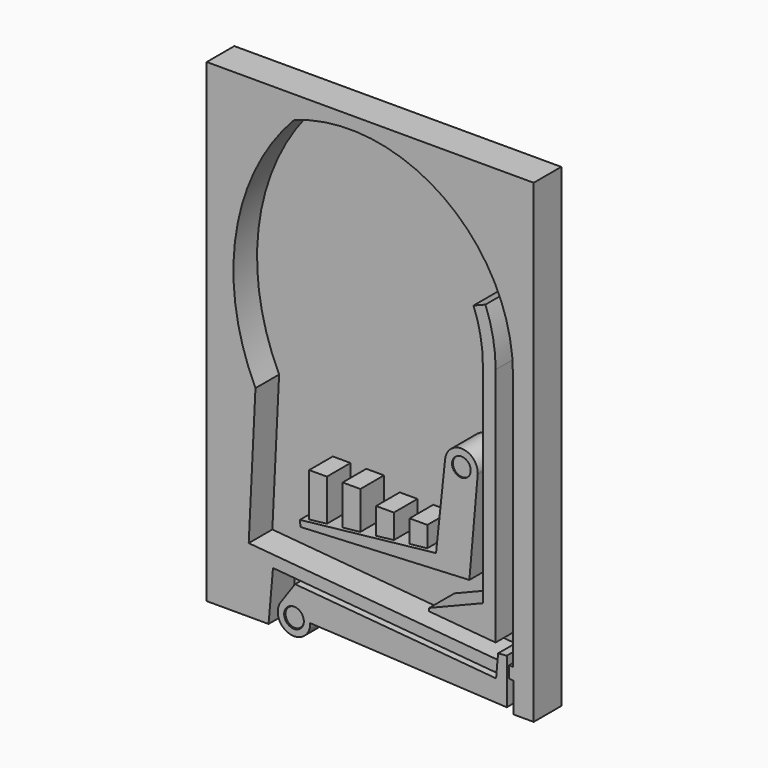
from build123d import *

# Parameters (mm, degrees)
F2_W      = 84.328
F2_H      = 122.428
F3_DEPTH  = 1.27
F5_DEPTH  = 8.89
F6_R      = 2.3876
F7_DEPTH  = 9.398
F9_DEPTH  = 8.89
F11_DEPTH = 8.382
F12_R     = 2.54
F13_DEPTH = 8.382


with BuildPart() as f3:
    # F2 (on offset) → F3 (new body)
    with BuildSketch(Plane.XZ.offset(-6.35)):
        Rectangle(F2_W, F2_H)
    extrude(amount=F3_DEPTH)

    # F4 (on offset) → F5 (join)
    with BuildSketch(Plane.XZ.offset(-6.35)):
        Polygon((42.164, -61.214), (42.164, 61.214), (-42.164, 61.214), (-42.164, -61.214), (-26.2186949899, -61.214), (-25.073299104, -48.1220651165), (36.9407255852, -53.5475892565), (36.9407255852, -61.214), align=None)
        with BuildLine():
            ThreePointArc((-19.6291451355, 55.3810316706), (18.8744427286, 50.3759680711), (36.8217671163, 15.9453060478))
            Line((36.8217671163, 15.9453060478), (36.8217671163, -50.4775388742))
            Line((36.8217671163, -50.4775388742), (-31.3344904241, -44.514638991))
            Line((-31.3344904241, -44.514638991), (-29.5968536021, -8.758113657))
            ThreePointArc((-29.5968536021, -8.758113657), (-34.6070188833, 24.864605255), (-19.6291451355, 55.3810316706))
        make_face(mode=Mode.SUBTRACT)
    extrude(amount=F5_DEPTH)

    # F6 (on offset) → F7 (join)
    with BuildSketch(Plane.XZ.offset(-6.35)):
        Polygon((15.5587220069, -44.5377389431), (29.4557679445, -45.7535729192), (29.4557679445, -38.1827019155), (15.6280227207, -43.745628159), align=None)
        with BuildLine():
            Line((32.7577671163, -46.0424604137), (32.7577671163, 15.9453060478))
            ThreePointArc((32.7577671163, 15.9453060478), (32.0932237014, 23.014866335), (30.1228756901, 29.8367450586))
            Line((30.1228756901, 29.8367450586), (27.0502206373, 28.6276174982))
            ThreePointArc((27.0502206373, 28.6276174982), (28.8490671877, 22.3995233042), (29.4557679445, 15.9453060478))
            Line((29.4557679445, 15.9453060478), (29.4557679445, -38.1827019155))
            Line((29.4557679445, -38.1827019155), (29.4557679445, -45.7535729192))
            Line((29.4557679445, -45.7535729192), (32.7577671163, -46.0424604137))
        make_face()
        with Locations((24.13, -8.89)):
            Circle(F6_R)
        with Locations((-19.05, -57.15)):
            Circle(F6_R)
    extrude(amount=F7_DEPTH)

    # F8 (on offset) → F9 (join)
    with BuildSketch(Plane.XZ.offset(-6.35)):
        Polygon((-15.748, -33.02), (-15.748, -34.0658823529), (-11.176, -33.5616176471), (-11.176, -22.86), (-15.748, -22.86), align=None)
        Polygon((-2.54, -22.86), (-7.112, -22.86), (-7.112, -33.1133823529), (-2.54, -32.6091176471), align=None)
        Polygon((6.096, -25.4), (1.524, -25.4), (1.524, -32.1608823529), (6.096, -31.6566176471), align=None)
        Polygon((10.16, -31.2083823529), (14.732000418, -30.704117601), (14.732000418, -25.4), (10.16, -25.4), align=None)
    extrude(amount=F9_DEPTH)


with BuildPart() as f11:
    # F10 (on face) → F11 (new body)
    with BuildSketch(Plane.XZ.offset(-5.08)):
        with BuildLine():
            ThreePointArc((28.3334333918, -9.2577527697), (26.9806460066, -12.0009342205), (24.13, -13.1094898245))
            ThreePointArc((24.13, -13.1094898245), (20.992915154, -11.7118421373), (19.9340623038, -8.444802035))
            Line((19.9340623038, -8.444802035), (17.5881162286, -30.5550638586))
            Line((17.5881162286, -30.5550638586), (-17.5324635623, -34.4286572179))
            Line((-17.5324635623, -34.4286572179), (-17.3600902965, -35.9915081612))
            Line((-17.3600902965, -35.9915081612), (26.1802510808, -33.8687392022))
            Line((26.1802510808, -33.8687392022), (28.3334333918, -9.2577527697))
        make_face()
        with BuildLine():
            ThreePointArc((19.9340623038, -8.444802035), (20.992915154, -11.7118421373), (24.13, -13.1094898245))
            ThreePointArc((24.13, -13.1094898245), (26.9806460066, -12.0009342205), (28.3334333918, -9.2577527697))
            ThreePointArc((28.3334333918, -9.2577527697), (28.3454738051, -9.0740515611), (28.3494898245, -8.89))
            ThreePointArc((28.3494898245, -8.89), (24.3529102571, -4.6764023215), (19.9340623038, -8.444802035))
        make_face()
        with BuildLine():
            ThreePointArc((24.13, -11.303), (22.423751337, -7.183751337), (26.543, -8.89))
            ThreePointArc((26.543, -8.89), (25.836248663, -10.596248663), (24.13, -11.303))
        make_face(mode=Mode.SUBTRACT)
    extrude(amount=F11_DEPTH)


with BuildPart() as f13:
    # F12 (on face) → F13 (new body)
    with BuildSketch(Plane.XZ.offset(-5.08)):
        with BuildLine():
            ThreePointArc((-22.4830662176, -54.7461411553), (-17.8564675206, -53.132542941), (-14.861323701, -57.0104583862))
            Line((-14.861323701, -57.0104583862), (35.8383679064, -59.6430109843))
            Line((35.8383679064, -59.6430109843), (35.8383679064, -53.4511454564))
            Line((35.8383679064, -53.4511454564), (33.141926992, -53.2152374445))
            Line((33.141926992, -53.2152374445), (33.0755143161, -53.9743378045))
            Line((33.0755143161, -53.9743378045), (-18.7667736394, -49.4387253171))
            Line((-18.7667736394, -49.4387253171), (-22.4830662176, -54.7461411553))
        make_face()
        Polygon((33.141926992, -53.2152374445), (35.8383679064, -53.4511454564), (35.8383679064, -47.9159813442), (33.5875218321, -48.1220651165), align=None)
        with BuildLine():
            ThreePointArc((-18.026093266, -61.214), (-15.744272083, -59.7261684609), (-14.859, -57.15))
            ThreePointArc((-14.859, -57.15), (-14.8595809655, -57.08021952), (-14.861323701, -57.0104583862))
            ThreePointArc((-14.861323701, -57.0104583862), (-17.8564675206, -53.132542941), (-22.4830662176, -54.7461411553))
            ThreePointArc((-22.4830662176, -54.7461411553), (-22.9773975457, -58.6128839729), (-20.073906734, -61.214))
            Line((-20.073906734, -61.214), (-18.026093266, -61.214))
        make_face()
        with Locations((-19.05, -57.15)):
            Circle(F12_R, mode=Mode.SUBTRACT)
        with BuildLine():
            ThreePointArc((-20.073906734, -61.214), (-19.05, -61.341), (-18.026093266, -61.214))
            Line((-18.026093266, -61.214), (-20.073906734, -61.214))
        make_face()
    extrude(amount=F13_DEPTH)


solid = Compound([f3.part, f11.part, f13.part])
